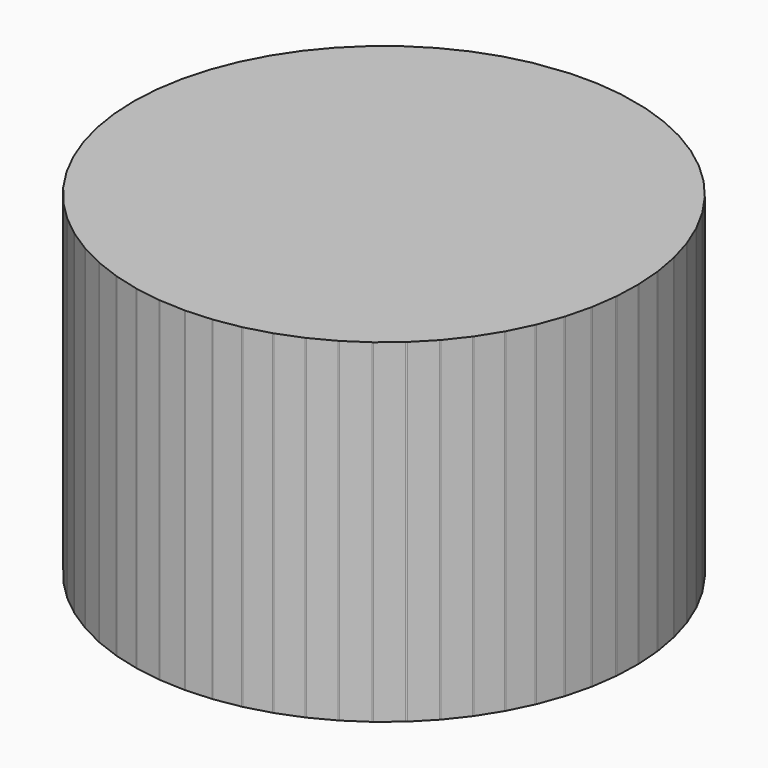
from build123d import *

# Parameters (mm, degrees)
F1_DEPTH = 1200


with BuildPart() as f1:
    # F0 (on Top) → F1 (new body)
    with BuildSketch(Plane.XY):
        with BuildLine():
            Line((-45.3789088382, 853.7132323148), (-161.9571096543, 839.5129492633))
            ThreePointArc((-161.9571096543, 839.5129492633), (-162.8425380997, 839.3095034309), (-163.7354467484, 839.1419090281))
            Line((-163.7354467484, 839.1419090281), (-251.8014482962, 817.0150783734))
            Line((-251.8014482962, 817.0150783734), (-336.5189511095, 785.9214993864))
            Line((-336.5189511095, 785.9214993864), (-417.4869680785, 746.0712024587))
            Line((-417.4869680785, 746.0712024587), (-493.8033555576, 697.9081986147))
            Line((-493.8033555576, 697.9081986147), (-564.6177982417, 641.9691188541))
            Line((-564.6177982417, 641.9691188541), (-629.1412833589, 578.8772350222))
            Line((-629.1412833589, 578.8772350222), (-682.1170715989, 514.8223528118))
            Line((-682.1170715989, 514.8223528118), (-686.6548918314, 509.3355153311))
            Line((-686.6548918314, 509.3355153311), (-736.5178084535, 434.1187919042))
            Line((-736.5178084535, 434.1187919042), (-778.1744618394, 354.065127617))
            Line((-778.1744618394, 354.065127617), (-811.1607145857, 270.0664784202))
            Line((-811.1607145857, 270.0664784202), (-835.1090346788, 183.0587551892))
            Line((-835.1090346788, 183.0587551892), (-849.7525905274, 94.0113958278))
            Line((-849.7525905274, 94.0113958278), (-854.9282239939, 3.9165638154))
            Line((-854.9282239939, 3.9165638154), (-850.578268298, -86.2219064544))
            Line((-850.578268298, -86.2219064544), (-836.7511905387, -175.3996943713))
            Line((-836.7511905387, -175.3996943713), (-813.6010516749, -262.6231832245))
            Line((-813.6010516749, -262.6231832245), (-781.3857899823, -346.9205310547))
            Line((-781.3857899823, -346.9205310547), (-740.4643471112, -427.3524988938))
            Line((-740.4643471112, -427.3524988938), (-691.2926687676, -503.0229157421))
            Line((-691.2926687676, -503.0229157421), (-634.4186245776, -573.0886636836))
            Line((-634.4186245776, -573.0886636836), (-570.4759037371, -636.7690718846))
            Line((-570.4759037371, -636.7690718846), (-506.4761709846, -688.2842035081))
            Line((-506.4761709846, -688.2842035081), (-500.1769544631, -693.3546148094))
            Line((-500.1769544631, -693.3546148094), (-426.3158105316, -740.9199199377))
            ThreePointArc((-426.3158105316, -740.9199199377), (-424.8358834766, -741.7358856475), (-423.4209874114, -742.6600356636))
            Line((-423.4209874114, -742.6600356636), (-343.705541017, -782.8052814894))
            Line((-343.705541017, -782.8052814894), (-261.5140246341, -813.8291669567))
            ThreePointArc((-261.5140246341, -813.8291669567), (-259.8959233098, -814.316744881), (-258.3187278444, -814.9237363074))
            Line((-258.3187278444, -814.9237363074), (-171.958561813, -837.4651399746))
            Line((-171.958561813, -837.4651399746), (-82.7246881061, -850.9255159127))
            Line((-82.7246881061, -850.9255159127), (7.430902033, -854.9049007629))
            Line((7.430902033, -854.9049007629), (97.5036972452, -849.3589563177))
            Line((97.5036972452, -849.3589563177), (186.4901086702, -834.3494753529))
            Line((186.4901086702, -834.3494753529), (273.3986519091, -810.043693135))
            Line((273.3986519091, -810.043693135), (357.260994119, -776.7124240893))
            Line((357.260994119, -776.7124240893), (437.1427431536, -734.7270443924))
            Line((437.1427431536, -734.7270443924), (512.1538585377, -684.5553541084))
            Line((512.1538585377, -684.5553541084), (581.4585682758, -626.7563649714))
            Line((581.4585682758, -626.7563649714), (644.2846810031, -561.9740718914))
            Line((644.2846810031, -561.9740718914), (699.932189723, -490.9302775783))
            Line((699.932189723, -490.9302775783), (747.7810712672, -414.4165502342))
            Line((747.7810712672, -414.4165502342), (787.2981945791, -333.2854039199))
            Line((787.2981945791, -333.2854039199), (818.0432608465, -248.4407998643))
            Line((818.0432608464, -248.4407998643), (839.6737093001, -160.828074551))
            Line((839.6737093001, -160.828074551), (851.9485340173, -71.4234068021))
            Line((851.9485340173, -71.4234068021), (854.7309692044, 18.7770587818))
            Line((854.7309692044, 18.7770587818), (847.990013037, 108.7683108404))
            Line((847.990013037, 108.7683108404), (831.8007730824, 197.5476690653))
            Line((831.8007730824, 197.5476690653), (806.3436294523, 284.1259560391))
            Line((806.3436294523, 284.1259560391), (771.90490781, 367.5320212431))
            Line((771.90490781, 367.5320212431), (728.5777405842, 447.3158272021))
            Line((728.5777405842, 447.3158272021), (677.3725558734, 521.6167445578))
            Line((677.3725558734, 521.6167445578), (618.6161139553, 590.1116091117))
            Line((618.6161139553, 590.1116091117), (552.96706657, 652.0314646875))
            Line((552.96706657, 652.0314646875), (481.1568737825, 706.6864017833))
            Line((481.1568737825, 706.6864017833), (403.9856429877, 753.4674564395))
            Line((403.9856429877, 753.4674564395), (322.3132141337, 791.8533953001))
            Line((322.3132141337, 791.8533953001), (237.2373893847, 821.3514045601))
            Line((237.2373893847, 821.3514045601), (239.7527374986, 820.7906595856))
            ThreePointArc((239.7527374986, 820.7906595856), (265.9068939352, 835.3807244994), (254.3980572648, 863.0295322783))
            Line((254.3980572648, 863.0295322783), (249.5442035689, 864.7124900596))
            Line((249.5442035689, 864.7124900596), (146.4151045816, 887.702995298))
            ThreePointArc((146.4151045816, 887.702995298), (160.990792771, 861.5538290942), (136.6884131579, 844.0717261175))
            Line((136.6884131579, 844.0717261175), (44.5426402827, 853.7132323148))
            Line((44.5426402827, 853.7132323148), (-45.3789088382, 853.7132323148))
        make_face()
        with BuildLine():
            Line((642.8181213307, -563.8463922543), (644.2846810031, -561.9740718914))
            Line((644.2846810031, -561.9740718914), (581.4585682758, -626.7563649714))
            Line((581.4585682758, -626.7563649714), (579.8028204189, -628.4636668921))
            ThreePointArc((579.8028204189, -628.4636668921), (578.6752652963, -658.5386161534), (608.4638135591, -662.8300431911))
            Line((608.4638135591, -662.8300431911), (612.1066136975, -659.7920077326))
            Line((612.1066136975, -659.7920077326), (674.9419505757, -595.0002032947))
            ThreePointArc((674.9419505757, -595.0002032947), (644.8670013143, -593.872648172), (642.8181213307, -563.8463922543))
        make_face()
        with BuildLine():
            Line((-813.6010516749, -262.6231832245), (-836.7511905387, -175.3996943713))
            Line((-836.7511905387, -175.3996943713), (-837.3612997934, -173.1009670036))
            ThreePointArc((-837.3612997934, -173.1009670036), (-862.5558125169, -156.6385709979), (-881.5822110222, -179.9574499062))
            Line((-881.5822110222, -179.9574499062), (-880.8554309669, -184.6448204961))
            Line((-880.8554309669, -184.6448204961), (-857.701893192, -271.881115531))
            ThreePointArc((-857.701893192, -271.881115531), (-841.2394971863, -246.6866028075), (-814.4500672863, -260.4015727038))
            Line((-814.4500672863, -260.4015727038), (-813.6010516749, -262.6231832245))
        make_face()
        with BuildLine():
            ThreePointArc((-161.9571096543, 839.5129492633), (-145.0800525171, 864.1438752582), (-167.4608662933, 883.9079018644))
            Line((-167.4608662933, 883.9079018644), (-172.9373137648, 883.22855791))
            Line((-172.9373137648, 883.22855791), (-260.4732322637, 861.2349121127))
            ThreePointArc((-260.4732322637, 861.2349121127), (-235.499437602, 844.4395694898), (-249.5687648207, 817.8345326502))
            Line((-249.5687648207, 817.8345326502), (-251.8014482962, 817.0150783734))
            Line((-251.8014482962, 817.0150783734), (-163.7354467484, 839.1419090281))
            ThreePointArc((-163.7354467484, 839.1419090281), (-165.6244096176, 838.9081229983), (-167.5263627339, 838.8345636856))
            Line((-167.5263627339, 838.8345636856), (-162.5424756598, 839.4416463704))
            Line((-162.5424756598, 839.4416463704), (-161.9571096543, 839.5129492633))
        make_face()
        with BuildLine():
            Line((-811.1607145857, 270.0664784202), (-778.1744618394, 354.065127617))
            Line((-778.1744618394, 354.065127617), (-777.3051271803, 356.2788660985))
            ThreePointArc((-777.3051271803, 356.2788660985), (-787.8620788923, 384.4626331316), (-817.0016263275, 376.9353010079))
            Line((-817.0016263275, 376.9353010079), (-819.1911869402, 372.7275133922))
            Line((-819.1911869402, 372.7275133922), (-852.2240400187, 288.610197641))
            Line((-852.2240400187, 288.610197641), (-853.9161090047, 284.3013872325))
            Line((-853.9161090047, 284.3013872325), (-877.8679451981, 197.2808894984))
            ThreePointArc((-877.8679451981, 197.2808894984), (-850.9539814034, 210.7498355034), (-834.7231117693, 185.4055496672))
            Line((-834.7231117693, 185.4055496672), (-835.1090346788, 183.0587551892))
            Line((-835.1090346788, 183.0587551892), (-811.1607145857, 270.0664784202))
        make_face()
        with BuildLine():
            ThreePointArc((-415.4756914051, 747.3405120965), (-407.2965554706, 776.3038628867), (-435.2364018246, 787.4904146047))
            Line((-435.2364018246, 787.4904146047), (-439.4922497249, 785.3957998562))
            Line((-439.4922497249, 785.3957998562), (-511.8670323402, 739.7203289848))
            ThreePointArc((-511.8670323402, 739.7203289848), (-485.5735713443, 727.6188864118), (-491.9370796316, 699.3824424825))
            Line((-491.9370796316, 699.3824424825), (-493.8033555576, 697.9081986147))
            Line((-493.8033555576, 697.9081986147), (-417.4869680785, 746.0712024587))
            Line((-417.4869680785, 746.0712024587), (-415.4756914051, 747.3405120965))
        make_face()
        with BuildLine():
            Line((-42.6683311302, 898.7132323148), (-48.1095215351, 898.7132323148))
            Line((-48.1095215351, 898.7132323148), (-167.4608662933, 883.9079018644))
            ThreePointArc((-167.4608662933, 883.9079018644), (-145.0800525171, 864.1438752582), (-161.9571096543, 839.5129492633))
            Line((-161.9571096543, 839.5129492633), (-45.3789088382, 853.7132323148))
            Line((-45.3789088382, 853.7132323148), (-42.6683311302, 854.0434052838))
            ThreePointArc((-42.6683311302, 854.0434052838), (-22.8889263327, 876.3783187993), (-42.6683311302, 898.7132323148))
        make_face()
        with BuildLine():
            ThreePointArc((-249.5687648207, 817.8345326502), (-235.499437602, 844.4395694898), (-260.4732322637, 861.2349121127))
            Line((-260.4732322637, 861.2349121127), (-265.0736273399, 860.079049907))
            Line((-265.0736273399, 860.079049907), (-354.2564971043, 827.3465623664))
            Line((-354.2564971043, 827.3465623664), (-435.2364018246, 787.4904146047))
            ThreePointArc((-435.2364018246, 787.4904146047), (-407.2965554706, 776.3038628867), (-415.4756914051, 747.3405120965))
            Line((-415.4756914051, 747.3405120965), (-417.4869680785, 746.0712024587))
            Line((-417.4869680785, 746.0712024587), (-336.5189511095, 785.9214993864))
            Line((-336.5189511095, 785.9214993864), (-251.8014482962, 817.0150783734))
            Line((-251.8014482962, 817.0150783734), (-249.5687648207, 817.8345326502))
        make_face()
        with BuildLine():
            Line((-634.4186245776, -573.0886636836), (-691.2926687676, -503.0229157421))
            Line((-691.2926687676, -503.0229157421), (-692.7915531119, -501.1763712568))
            ThreePointArc((-692.7915531119, -501.1763712568), (-722.520519058, -496.4899507252), (-730.3145155475, -525.5593086877))
            Line((-730.3145155475, -525.5593086877), (-727.7299495439, -529.5367036729))
            Line((-727.7299495439, -529.5367036729), (-670.8475550877, -599.6127386909))
            ThreePointArc((-670.8475550877, -599.6127386909), (-666.1611345562, -569.8837727448), (-636.1038000308, -571.4104013365))
            Line((-636.1038000308, -571.4104013365), (-634.4186245776, -573.0886636836))
        make_face()
        with BuildLine():
            Line((-564.6177982417, 641.9691188541), (-493.8033555576, 697.9081986147))
            Line((-493.8033555576, 697.9081986147), (-491.9370796316, 699.3824424825))
            ThreePointArc((-491.9370796316, 699.3824424825), (-485.5735713443, 727.6188864118), (-511.8670323402, 739.7203289848))
            Line((-511.8670323402, 739.7203289848), (-519.8311905508, 734.6941767365))
            Line((-519.8311905508, 734.6941767365), (-590.6560302351, 678.7468839814))
            ThreePointArc((-590.6560302351, 678.7468839814), (-560.9918839482, 673.6662955613), (-562.9173170634, 643.6318709631))
            Line((-562.9173170634, 643.6318709631), (-564.6177982417, 641.9691188541))
        make_face()
        with BuildLine():
            Line((483.1906793842, 705.4535126608), (481.1568737825, 706.6864017833))
            Line((481.1568737825, 706.6864017833), (552.96706657, 652.0314646875))
            Line((552.96706657, 652.0314646875), (554.8595849456, 650.5910636976))
            ThreePointArc((554.8595849456, 650.5910636976), (584.8544713606, 653.0569798728), (585.5640069848, 683.1446935251))
            Line((585.5640069848, 683.1446935251), (582.1133560867, 686.3993303213))
            Line((582.1133560867, 686.3993303213), (510.2926201027, 741.0622918732))
            ThreePointArc((510.2926201027, 741.0622918732), (512.7585362778, 711.0674054583), (483.1906793842, 705.4535126608))
        make_face()
        with BuildLine():
            Line((-172.9373137648, 883.22855791), (-167.4608662933, 883.9079018644))
            ThreePointArc((-167.4608662933, 883.9079018644), (-170.2199618423, 883.7364854349), (-172.9373137648, 883.22855791))
        make_face()
        with BuildLine():
            Line((698.6711586066, -492.946755036), (699.932189723, -490.9302775783))
            Line((699.932189723, -490.9302775783), (644.2846810031, -561.9740718914))
            Line((644.2846810031, -561.9740718914), (642.8181213307, -563.8463922543))
            ThreePointArc((642.8181213307, -563.8463922543), (644.8670013143, -593.872648172), (674.9419505757, -595.0002032947))
            Line((674.9419505757, -595.0002032947), (678.2442221385, -591.5951108112))
            Line((678.2442221385, -591.5951108112), (733.8999010442, -520.5408858245))
            ThreePointArc((733.8999010442, -520.5408858245), (703.8736451264, -522.5897658082), (698.6711586066, -492.946755036))
        make_face()
        with BuildLine():
            Line((435.1658662127, -736.0492918634), (437.1427431536, -734.7270443924))
            Line((437.1427431536, -734.7270443924), (357.260994119, -776.7124240893))
            Line((357.260994119, -776.7124240893), (355.1557542907, -777.8189258198))
            ThreePointArc((355.1557542907, -777.8189258198), (344.7147473748, -806.0458514088), (371.6838508498, -819.4040478208))
            Line((371.6838508498, -819.4040478208), (376.0918305234, -817.6520867787))
            Line((376.0918305234, -817.6520867787), (455.9853078232, -775.6605427744))
            ThreePointArc((455.9853078232, -775.6605427744), (427.7583822341, -765.2195358585), (435.1658662127, -736.0492918634))
        make_face()
        with BuildLine():
            ThreePointArc((510.2926201027, 741.0622918732), (508.4812885365, 742.5984243407), (506.5181265479, 743.9350693968))
            Line((506.5181265479, 743.9350693968), (510.2926201027, 741.0622918732))
        make_face()
        with BuildLine():
            Line((-686.6548918314, 509.3355153311), (-682.1170715989, 514.8223528118))
            ThreePointArc((-682.1170715989, 514.8223528118), (-690.7457883936, 542.6359351361), (-719.7417989469, 539.9375120348))
            Line((-719.7417989469, 539.9375120348), (-722.8477204559, 536.1820334846))
            Line((-722.8477204559, 536.1820334846), (-772.7179579681, 460.9542667133))
            ThreePointArc((-772.7179579681, 460.9542667133), (-742.9473022489, 465.3681099001), (-735.4199701252, 436.228562465))
            Line((-735.4199701252, 436.228562465), (-736.5178084535, 434.1187919042))
            Line((-736.5178084535, 434.1187919042), (-686.6548918314, 509.3355153311))
        make_face()
        with BuildLine():
            Line((-722.8477204559, 536.1820334846), (-719.7417989469, 539.9375120348))
            ThreePointArc((-719.7417989469, 539.9375120348), (-721.3940009219, 538.1418489684), (-722.8477204559, 536.1820334846))
        make_face()
        with BuildLine():
            Line((786.4879251645, -335.5214370792), (787.2981945791, -333.2854039199))
            Line((787.2981945791, -333.2854039199), (747.7810712672, -414.4165502342))
            Line((747.7810712672, -414.4165502342), (746.7396190845, -416.5547172447))
            ThreePointArc((746.7396190845, -416.5547172447), (755.0377461641, -445.4842011772), (784.6807569362, -440.2817146573))
            Line((784.6807569362, -440.2817146573), (787.1957939802, -436.259993513))
            Line((787.1957939802, -436.259993513), (826.7187192093, -355.1169354966))
            ThreePointArc((826.7187192093, -355.1169354966), (797.7892352769, -363.4150625762), (786.4879251645, -335.5214370792))
        make_face()
        with BuildLine():
            Line((-740.4643471112, -427.3524988938), (-781.3857899823, -346.9205310547))
            Line((-781.3857899823, -346.9205310547), (-782.4642522393, -344.8007905106))
            ThreePointArc((-782.4642522393, -344.8007905106), (-810.5501121494, -333.9860585797), (-824.2650820457, -360.7754884797))
            Line((-824.2650820457, -360.7754884797), (-822.5717806785, -365.2063329563))
            Line((-822.5717806785, -365.2063329563), (-781.6443297075, -445.6501098438))
            ThreePointArc((-781.6443297075, -445.6501098438), (-770.8295977765, -417.5642499337), (-741.7602398141, -425.3582464232))
            Line((-741.7602398141, -425.3582464232), (-740.4643471112, -427.3524988938))
        make_face()
        with BuildLine():
            ThreePointArc((585.5640069848, 683.1446935251), (583.9246876528, 684.8631978538), (582.1133560867, 686.3993303213))
            Line((582.1133560867, 686.3993303213), (585.5640069848, 683.1446935251))
        make_face()
        with BuildLine():
            Line((-424.3050459125, -742.2148177359), (-426.3158105316, -740.9199199377))
            ThreePointArc((-426.3158105316, -740.9199199377), (-455.5155553594, -748.8776791707), (-450.6800282807, -778.7535675741))
            Line((-450.6800282807, -778.7535675741), (-446.6697009873, -781.3361493109))
            Line((-446.6697009873, -781.3361493109), (-366.0583624456, -821.9325725698))
            ThreePointArc((-366.0583624456, -821.9325725698), (-373.9717891002, -792.89549916), (-345.9306228334, -781.9654054722))
            Line((-345.9306228334, -781.9654054722), (-343.705541017, -782.8052814894))
            Line((-343.705541017, -782.8052814894), (-423.4209874114, -742.6600356636))
            ThreePointArc((-423.4209874114, -742.6600356636), (-422.8567275796, -743.0726518027), (-422.3054832383, -743.5025016744))
            Line((-422.3054832383, -743.5025016744), (-424.3050459125, -742.2148177359))
        make_face()
        with BuildLine():
            Line((355.1557542907, -777.8189258198), (357.260994119, -776.7124240893))
            Line((357.260994119, -776.7124240893), (273.3986519091, -810.043693135))
            Line((273.3986519091, -810.043693135), (271.1885057237, -810.9221205101))
            ThreePointArc((271.1885057237, -810.9221205101), (257.8303093117, -837.8912239851), (283.2411015877, -854.0177731985))
            Line((283.2411015877, -854.0177731985), (287.8091959428, -852.7402105746))
            Line((287.8091959428, -852.7402105746), (371.6838508498, -819.4040478208))
            ThreePointArc((371.6838508498, -819.4040478208), (344.7147473748, -806.0458514088), (355.1557542907, -777.8189258198))
        make_face()
        with BuildLine():
            Line((-691.2926687676, -503.0229157421), (-740.4643471112, -427.3524988938))
            Line((-740.4643471112, -427.3524988938), (-741.7602398141, -425.3582464232))
            ThreePointArc((-741.7602398141, -425.3582464232), (-770.8295977765, -417.5642499337), (-781.6443297075, -445.6501098438))
            Line((-781.6443297075, -445.6501098438), (-779.4934132933, -449.8777818834))
            Line((-779.4934132933, -449.8777818834), (-730.3145155475, -525.5593086877))
            ThreePointArc((-730.3145155475, -525.5593086877), (-722.520519058, -496.4899507252), (-692.7915531119, -501.1763712568))
            Line((-692.7915531119, -501.1763712568), (-691.2926687676, -503.0229157421))
        make_face()
        with BuildLine():
            Line((406.1380752036, 752.4558160046), (403.9856429877, 753.4674564395))
            Line((403.9856429877, 753.4674564395), (481.1568737825, 706.6864017833))
            Line((481.1568737825, 706.6864017833), (483.1906793842, 705.4535126608))
            ThreePointArc((483.1906793842, 705.4535126608), (512.7585362778, 711.0674054583), (510.2926201027, 741.0622918732))
            Line((510.2926201027, 741.0622918732), (506.5181265479, 743.9350693968))
            Line((506.5181265479, 743.9350693968), (429.3355654472, 790.7229924631))
            ThreePointArc((429.3355654472, 790.7229924631), (434.9494582446, 761.1551355694), (406.1380752036, 752.4558160046))
        make_face()
        with BuildLine():
            Line((-163.7354467484, 839.1419090281), (-162.5424756598, 839.4416463704))
            Line((-162.5424756598, 839.4416463704), (-167.5263627339, 838.8345636856))
            ThreePointArc((-167.5263627339, 838.8345636856), (-165.6244096176, 838.9081229983), (-163.7354467484, 839.1419090281))
        make_face()
        with BuildLine():
            Line((554.8595849456, 650.5910636976), (552.96706657, 652.0314646875))
            Line((552.96706657, 652.0314646875), (618.6161139553, 590.1116091117))
            Line((618.6161139553, 590.1116091117), (620.3462587119, 588.4797451666))
            ThreePointArc((620.3462587119, 588.4797451666), (650.4339723642, 587.7702095424), (654.3110541595, 617.6155138695))
            Line((654.3110541595, 617.6155138695), (651.2226929852, 621.2157468554))
            Line((651.2226929852, 621.2157468554), (585.5640069848, 683.1446935251))
            ThreePointArc((585.5640069848, 683.1446935251), (584.8544713606, 653.0569798728), (554.8595849456, 650.5910636976))
        make_face()
        with BuildLine():
            Line((-781.3857899823, -346.9205310547), (-813.6010516749, -262.6231832245))
            Line((-813.6010516749, -262.6231832245), (-814.4500672863, -260.4015727038))
            ThreePointArc((-814.4500672863, -260.4015727038), (-841.2394971863, -246.6866028075), (-857.701893192, -271.881115531))
            Line((-857.701893192, -271.881115531), (-856.4850735938, -276.4657640847))
            Line((-856.4850735938, -276.4657640847), (-824.2650820457, -360.7754884797))
            ThreePointArc((-824.2650820457, -360.7754884797), (-810.5501121494, -333.9860585797), (-782.4642522393, -344.8007905106))
            Line((-782.4642522393, -344.8007905106), (-781.3857899823, -346.9205310547))
        make_face()
        with BuildLine():
            Line((817.4732022018, -250.7497853462), (818.0432608464, -248.4407998643))
            Line((818.0432608465, -248.4407998643), (787.2981945791, -333.2854039199))
            Line((787.2981945791, -333.2854039199), (786.4879251645, -335.5214370792))
            ThreePointArc((786.4879251645, -335.5214370792), (797.7892352769, -363.4150625762), (826.7187192093, -355.1169354966))
            Line((826.7187192093, -355.1169354966), (828.7958216575, -350.8525131776))
            Line((828.7958216575, -350.8525131776), (859.5454019258, -265.9954522089))
            ThreePointArc((859.5454019258, -265.9954522089), (831.6517764288, -277.2967623213), (817.4732022018, -250.7497853462))
        make_face()
        with BuildLine():
            Line((-629.1412833589, 578.8772350222), (-564.6177982417, 641.9691188541))
            Line((-564.6177982417, 641.9691188541), (-562.9173170634, 643.6318709631))
            ThreePointArc((-562.9173170634, 643.6318709631), (-560.9918839482, 673.6662955613), (-590.6560302351, 678.7468839814))
            Line((-590.6560302351, 678.7468839814), (-594.378185087, 675.8066092402))
            Line((-594.378185087, 675.8066092402), (-658.9286927825, 612.6883023879))
            Line((-658.9286927825, 612.6883023879), (-662.3026325609, 609.3892211903))
            Line((-662.3026325609, 609.3892211903), (-719.7417989469, 539.9375120348))
            ThreePointArc((-719.7417989469, 539.9375120348), (-690.7457883936, 542.6359351361), (-682.1170715989, 514.8223528118))
            Line((-682.1170715989, 514.8223528118), (-629.1412833589, 578.8772350222))
        make_face()
        with BuildLine():
            Line((-778.1744618394, 354.065127617), (-736.5178084535, 434.1187919042))
            Line((-736.5178084535, 434.1187919042), (-735.4199701252, 436.228562465))
            ThreePointArc((-735.4199701252, 436.228562465), (-742.9473022489, 465.3681099001), (-772.7179579681, 460.9542667133))
            Line((-772.7179579681, 460.9542667133), (-775.3388568977, 457.0007188009))
            Line((-775.3388568977, 457.0007188009), (-817.0016263275, 376.9353010079))
            ThreePointArc((-817.0016263275, 376.9353010079), (-787.8620788923, 384.4626331316), (-777.3051271803, 356.2788660985))
            Line((-777.3051271803, 356.2788660985), (-778.1744618394, 354.065127617))
        make_face()
        with BuildLine():
            Line((-361.8218843087, -824.066092031), (-366.0583624456, -821.9325725698))
            ThreePointArc((-366.0583624456, -821.9325725698), (-363.9965031627, -823.1112842808), (-361.8218843087, -824.066092031))
        make_face()
        with BuildLine():
            Line((-594.378185087, 675.8066092402), (-590.6560302351, 678.7468839814))
            ThreePointArc((-590.6560302351, 678.7468839814), (-592.5948065348, 677.3751072286), (-594.378185087, 675.8066092402))
        make_face()
        with BuildLine():
            Line((-856.4850735938, -276.4657640847), (-857.701893192, -271.881115531))
            ThreePointArc((-857.701893192, -271.881115531), (-857.2146360268, -274.2055951405), (-856.4850735938, -276.4657640847))
        make_face()
        with BuildLine():
            ThreePointArc((882.7950509974, -173.9102541605), (883.485215027, -171.6377448399), (883.931992497, -169.3051465263))
            Line((883.931992497, -169.3051465263), (882.7950509974, -173.9102541605))
        make_face()
        with BuildLine():
            ThreePointArc((608.4638135591, -662.8300431911), (610.3654958993, -661.4072890743), (612.1066136975, -659.7920077326))
            Line((612.1066136975, -659.7920077326), (608.4638135591, -662.8300431911))
        make_face()
        with BuildLine():
            Line((-570.4759037371, -636.7690718846), (-634.4186245776, -573.0886636836))
            Line((-634.4186245776, -573.0886636836), (-636.1038000308, -571.4104013365))
            ThreePointArc((-636.1038000308, -571.4104013365), (-666.1611345562, -569.8837727448), (-670.8475550877, -599.6127386909))
            Line((-670.8475550877, -599.6127386909), (-667.8581366654, -603.2955405851))
            Line((-667.8581366654, -603.2955405851), (-603.9060277333, -666.9852983649))
            ThreePointArc((-603.9060277333, -666.9852983649), (-602.3793991416, -636.9279638396), (-572.3285941161, -635.2777908335))
            Line((-572.3285941161, -635.2777908335), (-570.4759037371, -636.7690718846))
        make_face()
        with BuildLine():
            Line((-662.3026325609, 609.3892211903), (-658.9286927825, 612.6883023879))
            ThreePointArc((-658.9286927825, 612.6883023879), (-660.702843264, 611.1279205733), (-662.3026325609, 609.3892211903))
        make_face()
        with BuildLine():
            ThreePointArc((283.2411015877, -854.0177731985), (285.558909276, -853.4997070639), (287.8091959428, -852.7402105746))
            Line((287.8091959428, -852.7402105746), (283.2411015877, -854.0177731985))
        make_face()
        with BuildLine():
            ThreePointArc((826.7187192093, -355.1169354966), (827.8699608589, -353.0396132625), (828.7958216575, -350.8525131776))
            Line((828.7958216575, -350.8525131776), (826.7187192093, -355.1169354966))
        make_face()
        with BuildLine():
            Line((-439.4922497249, 785.3957998562), (-435.2364018246, 787.4904146047))
            ThreePointArc((-435.2364018246, 787.4904146047), (-437.4196774753, 786.5555710707), (-439.4922497249, 785.3957998562))
        make_face()
        with BuildLine():
            Line((839.3502130047, -163.1842856962), (839.6737093001, -160.828074551))
            Line((839.6737093001, -160.828074551), (818.0432608464, -248.4407998643))
            Line((818.0432608464, -248.4407998643), (817.4732022018, -250.7497853462))
            ThreePointArc((817.4732022018, -250.7497853462), (831.6517764288, -277.2967623213), (859.5454019258, -265.9954522089))
            Line((859.5454019258, -265.9954522089), (861.1614267541, -261.5358428034))
            Line((861.1614267541, -261.5358428034), (882.7950509974, -173.9102541605))
            ThreePointArc((882.7950509974, -173.9102541605), (856.2480740223, -188.0888283874), (839.3502130047, -163.1842856962))
        make_face()
        with BuildLine():
            Line((-261.5140246341, -813.8291669567), (-343.705541017, -782.8052814894))
            Line((-343.705541017, -782.8052814894), (-345.9306228334, -781.9654054722))
            ThreePointArc((-345.9306228334, -781.9654054722), (-373.9717891002, -792.89549916), (-366.0583624456, -821.9325725698))
            Line((-366.0583624456, -821.9325725698), (-361.8218843087, -824.066092031))
            Line((-361.8218843087, -824.066092031), (-277.4052861094, -855.9298535155))
            ThreePointArc((-277.4052861094, -855.9298535155), (-288.3966123399, -827.7315950992), (-261.5140246341, -813.8291669567))
        make_face()
        with BuildLine():
            ThreePointArc((784.6807569362, -440.2817146573), (786.0445523306, -438.3373157471), (787.1957939802, -436.259993513))
            Line((787.1957939802, -436.259993513), (784.6807569362, -440.2817146573))
        make_face()
        with BuildLine():
            Line((-853.9161090047, 284.3013872325), (-852.2240400187, 288.610197641))
            ThreePointArc((-852.2240400187, 288.610197641), (-853.1839379243, 286.5005065761), (-853.9161090047, 284.3013872325))
        make_face()
        with BuildLine():
            Line((-819.1911869402, 372.7275133922), (-817.0016263275, 376.9353010079))
            ThreePointArc((-817.0016263275, 376.9353010079), (-818.2076004465, 374.8892679133), (-819.1911869402, 372.7275133922))
        make_face()
        with BuildLine():
            Line((579.8028204189, -628.4636668921), (581.4585682758, -626.7563649714))
            Line((581.4585682758, -626.7563649714), (512.1538585377, -684.5553541084))
            Line((512.1538585377, -684.5553541084), (510.3273707982, -686.0786148711))
            ThreePointArc((510.3273707982, -686.0786148711), (506.0359437605, -715.8671631339), (535.2061877556, -723.2746471125))
            Line((535.2061877556, -723.2746471125), (539.1489284804, -720.637518395))
            Line((539.1489284804, -720.637518395), (608.4638135591, -662.8300431911))
            ThreePointArc((608.4638135591, -662.8300431911), (578.6752652963, -658.5386161534), (579.8028204189, -628.4636668921))
        make_face()
        with BuildLine():
            Line((510.3273707982, -686.0786148711), (512.1538585377, -684.5553541084))
            Line((512.1538585377, -684.5553541084), (437.1427431536, -734.7270443924))
            Line((437.1427431536, -734.7270443924), (435.1658662127, -736.0492918634))
            ThreePointArc((435.1658662127, -736.0492918634), (427.7583822341, -765.2195358585), (455.9853078232, -775.6605427744))
            Line((455.9853078232, -775.6605427744), (460.1840592145, -773.4537036209))
            Line((460.1840592145, -773.4537036209), (535.2061877556, -723.2746471125))
            ThreePointArc((535.2061877556, -723.2746471125), (506.0359437605, -715.8671631339), (510.3273707982, -686.0786148711))
        make_face()
        with BuildLine():
            ThreePointArc((371.6838508498, -819.4040478208), (373.9341375166, -818.6445513315), (376.0918305234, -817.6520867787))
            Line((376.0918305234, -817.6520867787), (371.6838508498, -819.4040478208))
        make_face()
        with BuildLine():
            Line((-265.0736273399, 860.079049907), (-260.4732322637, 861.2349121127))
            ThreePointArc((-260.4732322637, 861.2349121127), (-262.8039742916, 860.7785497569), (-265.0736273399, 860.079049907))
        make_face()
        with BuildLine():
            Line((-775.3388568977, 457.0007188009), (-772.7179579681, 460.9542667133))
            ThreePointArc((-772.7179579681, 460.9542667133), (-774.1328827787, 459.0467518954), (-775.3388568977, 457.0007188009))
        make_face()
        with BuildLine():
            Line((-667.8581366654, -603.2955405851), (-670.8475550877, -599.6127386909))
            ThreePointArc((-670.8475550877, -599.6127386909), (-669.4501665641, -601.5331371689), (-667.8581366654, -603.2955405851))
        make_face()
        with BuildLine():
            ThreePointArc((-163.7354467484, 839.1419090281), (-162.8425380997, 839.3095034309), (-161.9571096543, 839.5129492633))
            Line((-161.9571096543, 839.5129492633), (-162.5424756598, 839.4416463704))
            Line((-162.5424756598, 839.4416463704), (-163.7354467484, 839.1419090281))
        make_face()
        with BuildLine():
            Line((-849.7525905274, 94.0113958278), (-835.1090346788, 183.0587551892))
            Line((-835.1090346788, 183.0587551892), (-834.7231117693, 185.4055496672))
            ThreePointArc((-834.7231117693, 185.4055496672), (-850.9539814034, 210.7498355034), (-877.8679451981, 197.2808894984))
            Line((-877.8679451981, 197.2808894984), (-879.126718867, 192.707582036))
            Line((-879.126718867, 192.707582036), (-893.7724246874, 103.6471487116))
            ThreePointArc((-893.7724246874, 103.6471487116), (-868.4281388512, 119.8780183456), (-849.6161895367, 96.3857958749))
            Line((-849.6161895367, 96.3857958749), (-849.7525905274, 94.0113958278))
        make_face()
        with BuildLine():
            Line((-506.4761709846, -688.2842035081), (-570.4759037371, -636.7690718846))
            Line((-570.4759037371, -636.7690718846), (-572.3285941161, -635.2777908335))
            ThreePointArc((-572.3285941161, -635.2777908335), (-602.3793991416, -636.9279638396), (-603.9060277333, -666.9852983649))
            Line((-603.9060277333, -666.9852983649), (-600.5450649184, -670.3324734802))
            Line((-600.5450649184, -670.3324734802), (-530.3632146329, -726.8237602332))
            ThreePointArc((-530.3632146329, -726.8237602332), (-533.7224992936, -698.0692125192), (-506.4761709846, -688.2842035081))
        make_face()
        with BuildLine():
            Line((620.3462587119, 588.4797451666), (618.6161139553, 590.1116091117))
            Line((618.6161139553, 590.1116091117), (677.3725558734, 521.6167445578))
            Line((677.3725558734, 521.6167445578), (678.9210497808, 519.8115998454))
            ThreePointArc((678.9210497808, 519.8115998454), (708.7663541079, 515.9345180501), (715.7677837245, 545.2048774082))
            Line((715.7677837245, 545.2048774082), (713.076122718, 549.1105928767))
            Line((713.076122718, 549.1105928767), (654.3110541595, 617.6155138695))
            ThreePointArc((654.3110541595, 617.6155138695), (650.4339723642, 587.7702095424), (620.3462587119, 588.4797451666))
        make_face()
        with BuildLine():
            Line((-500.1769544631, -693.3546148094), (-506.4761709846, -688.2842035081))
            ThreePointArc((-506.4761709846, -688.2842035081), (-533.7224992936, -698.0692125192), (-530.3632146329, -726.8237602332))
            Line((-530.3632146329, -726.8237602332), (-526.5407348864, -729.9005785073))
            Line((-526.5407348864, -729.9005785073), (-450.6800282807, -778.7535675741))
            ThreePointArc((-450.6800282807, -778.7535675741), (-455.5155553594, -748.8776791707), (-426.3158105316, -740.9199199377))
            Line((-426.3158105316, -740.9199199377), (-500.1769544631, -693.3546148094))
        make_face()
        with BuildLine():
            Line((854.9086234192, 16.4053885278), (854.7309692044, 18.7770587818))
            Line((854.7309692044, 18.7770587818), (851.9485340173, -71.4234068021))
            Line((851.9485340173, -71.4234068021), (851.875204459, -73.8005907643))
            ThreePointArc((851.875204459, -73.8005907643), (871.3040767169, -96.7852133718), (896.2086194081, -79.8873523542))
            Line((896.2086194081, -79.8873523542), (896.853809805, -75.1880564871))
            Line((896.853809805, -75.1880564871), (899.6366535101, 15.0256523594))
            ThreePointArc((899.6366535101, 15.0256523594), (876.6520309025, -4.4032198986), (854.9086234192, 16.4053885278))
        make_face()
        with BuildLine():
            ThreePointArc((654.3110541595, 617.6155138695), (652.8620123172, 619.4972425267), (651.2226929852, 621.2157468554))
            Line((651.2226929852, 621.2157468554), (654.3110541595, 617.6155138695))
        make_face()
        with BuildLine():
            Line((-850.578268298, -86.2219064544), (-854.9282239939, 3.9165638154))
            Line((-854.9282239939, 3.9165638154), (-855.0428646984, 6.2921139249))
            ThreePointArc((-855.0428646984, 6.2921139249), (-876.2262914185, 27.6705232674), (-899.7185138893, 8.8585739529))
            Line((-899.7185138893, 8.8585739529), (-899.9905559825, 4.1230016121))
            Line((-899.9905559825, 4.1230016121), (-895.4113188777, -90.7665688766))
            Line((-895.4113188777, -90.7665688766), (-881.5822110222, -179.9574499062))
            ThreePointArc((-881.5822110222, -179.9574499062), (-862.5558125169, -156.6385709979), (-837.3612997934, -173.1009670036))
            Line((-837.3612997934, -173.1009670036), (-836.7511905387, -175.3996943713))
            Line((-836.7511905387, -175.3996943713), (-850.578268298, -86.2219064544))
        make_face()
        with BuildLine():
            Line((-822.5717806785, -365.2063329563), (-824.2650820457, -360.7754884797))
            ThreePointArc((-824.2650820457, -360.7754884797), (-823.5355196127, -363.0356574239), (-822.5717806785, -365.2063329563))
        make_face()
        with BuildLine():
            Line((746.7396190845, -416.5547172447), (747.7810712672, -414.4165502342))
            Line((747.7810712672, -414.4165502342), (699.932189723, -490.9302775783))
            Line((699.932189723, -490.9302775783), (698.6711586066, -492.946755036))
            ThreePointArc((698.6711586066, -492.946755036), (703.8736451264, -522.5897658082), (733.8999010442, -520.5408858245))
            Line((733.8999010442, -520.5408858245), (736.8248502032, -516.8066757725))
            Line((736.8248502032, -516.8066757725), (784.6807569362, -440.2817146573))
            ThreePointArc((784.6807569362, -440.2817146573), (755.0377461641, -445.4842011772), (746.7396190845, -416.5547172447))
        make_face()
        with BuildLine():
            ThreePointArc((674.9419505757, -595.0002032947), (676.6830683738, -593.384921953), (678.2442221385, -591.5951108112))
            Line((678.2442221385, -591.5951108112), (674.9419505757, -595.0002032947))
        make_face()
        with BuildLine():
            Line((-727.7299495439, -529.5367036729), (-730.3145155475, -525.5593086877))
            ThreePointArc((-730.3145155475, -525.5593086877), (-729.1273380675, -527.616305195), (-727.7299495439, -529.5367036729))
        make_face()
        with BuildLine():
            Line((-779.4934132933, -449.8777818834), (-781.6443297075, -445.6501098438))
            ThreePointArc((-781.6443297075, -445.6501098438), (-780.6805907733, -447.8207853761), (-779.4934132933, -449.8777818834))
        make_face()
        with BuildLine():
            ThreePointArc((429.3355654472, 790.7229924631), (427.3724034585, 792.0596375192), (425.2792845496, 793.1819022979))
            Line((425.2792845496, 793.1819022979), (429.3355654472, 790.7229924631))
        make_face()
        with BuildLine():
            Line((425.2792845496, 793.1819022979), (343.5948645223, 831.573476995))
            ThreePointArc((343.5948645223, 831.573476995), (352.2941840872, 802.762093954), (324.5602906173, 791.0742752256))
            Line((324.5602906173, 791.0742752256), (322.3132141337, 791.8533953001))
            Line((322.3132141337, 791.8533953001), (403.9856429877, 753.4674564395))
            Line((403.9856429877, 753.4674564395), (406.1380752036, 752.4558160046))
            ThreePointArc((406.1380752036, 752.4558160046), (434.9494582446, 761.1551355694), (429.3355654472, 790.7229924631))
            Line((429.3355654472, 790.7229924631), (425.2792845496, 793.1819022979))
        make_face()
        with BuildLine():
            Line((-446.6697009873, -781.3361493109), (-450.6800282807, -778.7535675741))
            ThreePointArc((-450.6800282807, -778.7535675741), (-448.743111213, -780.1508342242), (-446.6697009873, -781.3361493109))
        make_face()
        with BuildLine():
            Line((848.4166716061, 106.4285793859), (847.990013037, 108.7683108404))
            Line((847.990013037, 108.7683108404), (854.7309692044, 18.7770587818))
            Line((854.7309692044, 18.7770587818), (854.9086234192, 16.4053885278))
            ThreePointArc((854.9086234192, 16.4053885278), (876.6520309025, -4.4032198986), (899.6366535101, 15.0256523594))
            Line((899.6366535101, 15.0256523594), (899.7829041087, 19.7667770211))
            Line((899.7829041087, 19.7667770211), (893.0409582318, 109.7712416254))
            ThreePointArc((893.0409582318, 109.7712416254), (872.2323498055, 88.0278341421), (848.4166716061, 106.4285793859))
        make_face()
        with BuildLine():
            Line((-526.5407348864, -729.9005785073), (-530.3632146329, -726.8237602332))
            ThreePointArc((-530.3632146329, -726.8237602332), (-528.5332818945, -728.4631811455), (-526.5407348864, -729.9005785073))
        make_face()
        with BuildLine():
            Line((-880.8554309669, -184.6448204961), (-881.5822110222, -179.9574499062))
            ThreePointArc((-881.5822110222, -179.9574499062), (-881.3426881321, -182.3203408866), (-880.8554309669, -184.6448204961))
        make_face()
        with BuildLine():
            ThreePointArc((896.2086194081, -79.8873523542), (896.6553968781, -77.5547540407), (896.853809805, -75.1880564871))
            Line((896.853809805, -75.1880564871), (896.2086194081, -79.8873523542))
        make_face()
        with BuildLine():
            ThreePointArc((146.4151045816, 887.702995298), (143.9256105691, 888.4104773664), (141.37134191, 888.8273981413))
            Line((141.37134191, 888.8273981413), (146.4151045816, 887.702995298))
        make_face()
        with BuildLine():
            ThreePointArc((733.8999010442, -520.5408858245), (735.4610548088, -518.7510746828), (736.8248502032, -516.8066757725))
            Line((736.8248502032, -516.8066757725), (733.8999010442, -520.5408858245))
        make_face()
        with BuildLine():
            Line((7.430902033, -854.9049007629), (-82.7246881061, -850.9255159127))
            Line((-82.7246881061, -850.9255159127), (-85.1006894004, -850.8206414003))
            ThreePointArc((-85.1006894004, -850.8206414003), (-108.3411590727, -869.9427365533), (-91.7753345488, -895.069364092))
            Line((-91.7753345488, -895.069364092), (-87.0850159728, -895.7768695345))
            Line((-87.0850159728, -895.7768695345), (3.0838108402, -899.7568386394))
            ThreePointArc((3.0838108402, -899.7568386394), (-16.0382843127, -876.5163689671), (5.0570827538, -855.0510610971))
            Line((5.0570827538, -855.0510610971), (7.430902033, -854.9049007629))
        make_face()
        with BuildLine():
            ThreePointArc((455.9853078232, -775.6605427744), (458.1430008299, -774.6680782216), (460.1840592145, -773.4537036209))
            Line((460.1840592145, -773.4537036209), (455.9853078232, -775.6605427744))
        make_face()
        with BuildLine():
            Line((-854.9282239939, 3.9165638154), (-849.7525905274, 94.0113958278))
            Line((-849.7525905274, 94.0113958278), (-849.6161895367, 96.3857958749))
            ThreePointArc((-849.6161895367, 96.3857958749), (-868.4281388512, 119.8780183456), (-893.7724246874, 103.6471487116))
            Line((-893.7724246874, 103.6471487116), (-894.5421205345, 98.9666337187))
            Line((-894.5421205345, 98.9666337187), (-899.7185138893, 8.8585739529))
            ThreePointArc((-899.7185138893, 8.8585739529), (-876.2262914185, 27.6705232674), (-855.0428646984, 6.2921139249))
            Line((-855.0428646984, 6.2921139249), (-854.9282239939, 3.9165638154))
        make_face()
        with BuildLine():
            ThreePointArc((859.5454019258, -265.9954522089), (860.4712627245, -263.808352124), (861.1614267541, -261.5358428034))
            Line((861.1614267541, -261.5358428034), (859.5454019258, -265.9954522089))
        make_face()
        with BuildLine():
            Line((141.37134191, 888.8273981413), (51.5479812058, 898.2259029437))
            ThreePointArc((51.5479812058, 898.2259029437), (69.2683144768, 873.8717679387), (46.8904784649, 853.7132323148))
            Line((46.8904784649, 853.7132323148), (44.5426402827, 853.7132323148))
            Line((44.5426402827, 853.7132323148), (136.6884131579, 844.0717261175))
            ThreePointArc((136.6884131579, 844.0717261175), (160.990792771, 861.5538290942), (146.4151045816, 887.702995298))
            Line((146.4151045816, 887.702995298), (141.37134191, 888.8273981413))
        make_face()
        with BuildLine():
            Line((-259.27647747, -814.6737481251), (-261.5140246341, -813.8291669567))
            ThreePointArc((-261.5140246341, -813.8291669567), (-288.3966123399, -827.7315950992), (-277.4052861094, -855.9298535155))
            Line((-277.4052861094, -855.9298535155), (-272.942657129, -857.6143107011))
            Line((-272.942657129, -857.6143107011), (-185.6119214264, -880.4090487904))
            ThreePointArc((-185.6119214264, -880.4090487904), (-199.4368993133, -853.6762236488), (-174.3102717746, -837.1103991249))
            Line((-174.3102717746, -837.1103991249), (-171.958561813, -837.4651399746))
            Line((-171.958561813, -837.4651399746), (-258.3187278444, -814.9237363074))
            ThreePointArc((-258.3187278444, -814.9237363074), (-257.6805050789, -815.208890542), (-257.0513956537, -815.5136241423))
            Line((-257.0513956537, -815.5136241423), (-259.27647747, -814.6737481251))
        make_face()
        with BuildLine():
            ThreePointArc((-258.3187278444, -814.9237363074), (-259.8959233098, -814.316744881), (-261.5140246341, -813.8291669567))
            Line((-261.5140246341, -813.8291669567), (-259.27647747, -814.6737481251))
            Line((-259.27647747, -814.6737481251), (-258.3187278444, -814.9237363074))
        make_face()
        with BuildLine():
            Line((46.8904784649, 898.7132323148), (-42.6683311302, 898.7132323148))
            ThreePointArc((-42.6683311302, 898.7132323148), (-22.8889263327, 876.3783187993), (-42.6683311302, 854.0434052838))
            Line((-42.6683311302, 854.0434052838), (-45.3789088382, 853.7132323148))
            Line((-45.3789088382, 853.7132323148), (44.5426402827, 853.7132323148))
            Line((44.5426402827, 853.7132323148), (46.8904784649, 853.7132323148))
            ThreePointArc((46.8904784649, 853.7132323148), (69.2683144768, 873.8717679387), (51.5479812058, 898.2259029437))
            Line((51.5479812058, 898.2259029437), (46.8904784649, 898.7132323148))
        make_face()
        with BuildLine():
            Line((271.1885057237, -810.9221205101), (273.3986519091, -810.043693135))
            Line((273.3986519091, -810.043693135), (186.4901086702, -834.3494753529))
            Line((186.4901086702, -834.3494753529), (184.199681522, -834.9900409564))
            ThreePointArc((184.199681522, -834.9900409564), (168.0731323085, -860.4008332324), (191.6424869653, -879.1160536342))
            Line((191.6424869653, -879.1160536342), (196.3197984075, -878.3271239995))
            Line((196.3197984075, -878.3271239995), (283.2411015877, -854.0177731985))
            ThreePointArc((283.2411015877, -854.0177731985), (257.8303093117, -837.8912239851), (271.1885057237, -810.9221205101))
        make_face()
        with BuildLine():
            Line((832.4716821865, 195.2659456403), (831.8007730824, 197.5476690653))
            Line((831.8007730824, 197.5476690653), (847.990013037, 108.7683108404))
            Line((847.990013037, 108.7683108404), (848.4166716061, 106.4285793859))
            ThreePointArc((848.4166716061, 106.4285793859), (872.2323498055, 88.0278341421), (893.0409582318, 109.7712416254))
            Line((893.0409582318, 109.7712416254), (892.6866395116, 114.5013695877))
            Line((892.6866395116, 114.5013695877), (876.4950226474, 203.2937624277))
            ThreePointArc((876.4950226474, 203.2937624277), (858.0942774036, 179.4780842282), (832.4716821865, 195.2659456403))
        make_face()
        with BuildLine():
            Line((851.875204459, -73.8005907643), (851.9485340173, -71.4234068021))
            Line((851.9485340173, -71.4234068021), (839.6737093001, -160.828074551))
            Line((839.6737093001, -160.828074551), (839.3502130047, -163.1842856962))
            ThreePointArc((839.3502130047, -163.1842856962), (856.2480740223, -188.0888283874), (882.7950509974, -173.9102541605))
            Line((882.7950509974, -173.9102541605), (883.931992497, -169.3051465263))
            Line((883.931992497, -169.3051465263), (896.2086194081, -79.8873523542))
            ThreePointArc((896.2086194081, -79.8873523542), (871.3040767169, -96.7852133718), (851.875204459, -73.8005907643))
        make_face()
        with BuildLine():
            Line((-879.126718867, 192.707582036), (-877.8679451981, 197.2808894984))
            ThreePointArc((-877.8679451981, 197.2808894984), (-878.6181849699, 195.0274997663), (-879.126718867, 192.707582036))
        make_face()
        with BuildLine():
            ThreePointArc((-42.6683311302, 898.7132323148), (-45.3889263327, 898.8783187993), (-48.1095215351, 898.7132323148))
            Line((-48.1095215351, 898.7132323148), (-42.6683311302, 898.7132323148))
        make_face()
        with BuildLine():
            Line((-894.5421205345, 98.9666337187), (-893.7724246874, 103.6471487116))
            ThreePointArc((-893.7724246874, 103.6471487116), (-894.2809585844, 101.3272309812), (-894.5421205345, 98.9666337187))
        make_face()
        with BuildLine():
            ThreePointArc((535.2061877556, -723.2746471125), (537.2472461402, -722.0602725118), (539.1489284804, -720.637518395))
            Line((539.1489284804, -720.637518395), (535.2061877556, -723.2746471125))
        make_face()
        with BuildLine():
            Line((-600.5450649184, -670.3324734802), (-603.9060277333, -666.9852983649))
            ThreePointArc((-603.9060277333, -666.9852983649), (-602.3139978345, -668.7477017811), (-600.5450649184, -670.3324734802))
        make_face()
        with BuildLine():
            ThreePointArc((-423.4209874114, -742.6600356636), (-424.8358834766, -741.7358856475), (-426.3158105316, -740.9199199377))
            Line((-426.3158105316, -740.9199199377), (-424.3050459125, -742.2148177359))
            Line((-424.3050459125, -742.2148177359), (-423.4209874114, -742.6600356636))
        make_face()
        with BuildLine():
            Line((-258.3187278444, -814.9237363074), (-259.27647747, -814.6737481251))
            Line((-259.27647747, -814.6737481251), (-257.0513956537, -815.5136241423))
            ThreePointArc((-257.0513956537, -815.5136241423), (-257.6805050789, -815.208890542), (-258.3187278444, -814.9237363074))
        make_face()
        with BuildLine():
            Line((339.3019912637, 833.5911220284), (254.3980572648, 863.0295322783))
            ThreePointArc((254.3980572648, 863.0295322783), (265.9068939352, 835.3807244994), (239.7527374986, 820.7906595856))
            Line((239.7527374986, 820.7906595856), (237.2373893847, 821.3514045601))
            Line((237.2373893847, 821.3514045601), (322.3132141337, 791.8533953001))
            Line((322.3132141337, 791.8533953001), (324.5602906173, 791.0742752256))
            ThreePointArc((324.5602906173, 791.0742752256), (352.2941840872, 802.762093954), (343.5948645223, 831.573476995))
            Line((343.5948645223, 831.573476995), (339.3019912637, 833.5911220284))
        make_face()
        with BuildLine():
            Line((-423.4209874114, -742.6600356636), (-424.3050459125, -742.2148177359))
            Line((-424.3050459125, -742.2148177359), (-422.3054832383, -743.5025016744))
            ThreePointArc((-422.3054832383, -743.5025016744), (-422.8567275796, -743.0726518027), (-423.4209874114, -742.6600356636))
        make_face()
        with BuildLine():
            Line((773.0432599318, 365.4358291628), (771.90490781, 367.5320212431))
            Line((771.90490781, 367.5320212431), (806.3436294523, 284.1259560391))
            Line((806.3436294523, 284.1259560391), (807.2513138389, 281.9276635499))
            ThreePointArc((807.2513138389, 281.9276635499), (834.3953397503, 268.9285939315), (850.1832011624, 294.5511891485))
            Line((850.1832011624, 294.5511891485), (848.8451205805, 299.1019245453))
            Line((848.8451205805, 299.1019245453), (814.4039801509, 382.5138477346))
            ThreePointArc((814.4039801509, 382.5138477346), (801.4029341476, 355.3765472661), (773.0432599318, 365.4358291628))
        make_face()
        with BuildLine():
            Line((95.1585090168, -849.7545229835), (97.5036972452, -849.3589563177))
            Line((97.5036972452, -849.3589563177), (7.430902033, -854.9049007629))
            Line((7.430902033, -854.9049007629), (5.0570827538, -855.0510610971))
            ThreePointArc((5.0570827538, -855.0510610971), (-16.0382843127, -876.5163689671), (3.0838108402, -899.7568386394))
            Line((3.0838108402, -899.7568386394), (7.8225767549, -899.9660034095))
            Line((7.8225767549, -899.9660034095), (97.908596485, -894.4192447068))
            ThreePointArc((97.908596485, -894.4192447068), (76.443288615, -873.3238776403), (95.1585090168, -849.7545229835))
        make_face()
        with BuildLine():
            Line((-272.942657129, -857.6143107011), (-277.4052861094, -855.9298535155))
            ThreePointArc((-277.4052861094, -855.9298535155), (-275.2184846112, -856.8900102873), (-272.942657129, -857.6143107011))
        make_face()
        with BuildLine():
            Line((807.2513138389, 281.9276635499), (806.3436294523, 284.1259560391))
            Line((806.3436294523, 284.1259560391), (831.8007730824, 197.5476690653))
            Line((831.8007730824, 197.5476690653), (832.4716821865, 195.2659456403))
            ThreePointArc((832.4716821865, 195.2659456403), (858.0942774036, 179.4780842282), (876.4950226474, 203.2937624277))
            Line((876.4950226474, 203.2937624277), (875.6440824188, 207.9601907216))
            Line((875.6440824188, 207.9601907216), (850.1832011624, 294.5511891485))
            ThreePointArc((850.1832011624, 294.5511891485), (834.3953397503, 268.9285939315), (807.2513138389, 281.9276635499))
        make_face()
        with BuildLine():
            Line((-82.7246881061, -850.9255159127), (-171.958561813, -837.4651399746))
            Line((-171.958561813, -837.4651399746), (-174.3102717746, -837.1103991249))
            ThreePointArc((-174.3102717746, -837.1103991249), (-199.4368993133, -853.6762236488), (-185.6119214264, -880.4090487904))
            Line((-185.6119214264, -880.4090487904), (-181.0223096028, -881.6070118971))
            Line((-181.0223096028, -881.6070118971), (-91.7753345488, -895.069364092))
            ThreePointArc((-91.7753345488, -895.069364092), (-108.3411590727, -869.9427365533), (-85.1006894004, -850.8206414003))
            Line((-85.1006894004, -850.8206414003), (-82.7246881061, -850.9255159127))
        make_face()
        with BuildLine():
            ThreePointArc((51.5479812058, 898.2259029437), (49.2319428409, 898.5910683267), (46.8904784649, 898.7132323148))
            Line((46.8904784649, 898.7132323148), (51.5479812058, 898.2259029437))
        make_face()
        with BuildLine():
            Line((-899.9905559825, 4.1230016121), (-899.7185138893, 8.8585739529))
            ThreePointArc((-899.7185138893, 8.8585739529), (-899.9796758394, 6.4979766904), (-899.9905559825, 4.1230016121))
        make_face()
        with BuildLine():
            ThreePointArc((899.6366535101, 15.0256523594), (899.8350664369, 17.392349913), (899.7829041087, 19.7667770211))
            Line((899.7829041087, 19.7667770211), (899.6366535101, 15.0256523594))
        make_face()
        with BuildLine():
            Line((184.199681522, -834.9900409564), (186.4901086702, -834.3494753529))
            Line((186.4901086702, -834.3494753529), (97.5036972452, -849.3589563177))
            Line((97.5036972452, -849.3589563177), (95.1585090168, -849.7545229835))
            ThreePointArc((95.1585090168, -849.7545229835), (76.443288615, -873.3238776403), (97.908596485, -894.4192447068))
            Line((97.908596485, -894.4192447068), (102.6430105256, -894.127738296))
            Line((102.6430105256, -894.127738296), (191.6424869653, -879.1160536342))
            ThreePointArc((191.6424869653, -879.1160536342), (168.0731323085, -860.4008332324), (184.199681522, -834.9900409564))
        make_face()
        with BuildLine():
            Line((678.9210497808, 519.8115998454), (677.3725558734, 521.6167445578))
            Line((677.3725558734, 521.6167445578), (728.5777405842, 447.3158272021))
            Line((728.5777405842, 447.3158272021), (729.9313192764, 445.3517265135))
            ThreePointArc((729.9313192764, 445.3517265135), (759.1955190615, 438.3469506541), (769.2548009582, 466.7066248698))
            Line((769.2548009582, 466.7066248698), (766.9844758983, 470.8872622305))
            Line((766.9844758983, 470.8872622305), (715.7677837245, 545.2048774082))
            ThreePointArc((715.7677837245, 545.2048774082), (708.7663541079, 515.9345180501), (678.9210497808, 519.8115998454))
        make_face()
        with BuildLine():
            ThreePointArc((343.5948645223, 831.573476995), (341.5017456135, 832.6957417736), (339.3019912637, 833.5911220284))
            Line((339.3019912637, 833.5911220284), (343.5948645223, 831.573476995))
        make_face()
        with BuildLine():
            ThreePointArc((97.908596485, -894.4192447068), (100.2835067718, -894.3986017959), (102.6430105256, -894.127738296))
            Line((102.6430105256, -894.127738296), (97.908596485, -894.4192447068))
        make_face()
        with BuildLine():
            ThreePointArc((850.1832011624, 294.5511891485), (849.6344173258, 296.8619165882), (848.8451205805, 299.1019245453))
            Line((848.8451205805, 299.1019245453), (850.1832011624, 294.5511891485))
        make_face()
        with BuildLine():
            Line((7.8225767549, -899.9660034095), (3.0838108402, -899.7568386394))
            ThreePointArc((3.0838108402, -899.7568386394), (5.4476664682, -899.9866463204), (7.8225767549, -899.9660034095))
        make_face()
        with BuildLine():
            ThreePointArc((254.3980572648, 863.0295322783), (252.019320857, 864.009998224), (249.5442035689, 864.7124900596))
            Line((249.5442035689, 864.7124900596), (254.3980572648, 863.0295322783))
        make_face()
        with BuildLine():
            Line((729.9313192764, 445.3517265135), (728.5777405842, 447.3158272021))
            Line((728.5777405842, 447.3158272021), (771.90490781, 367.5320212431))
            Line((771.90490781, 367.5320212431), (773.0432599318, 365.4358291628))
            ThreePointArc((773.0432599318, 365.4358291628), (801.4029341476, 355.3765472661), (814.4039801509, 382.5138477346))
            Line((814.4039801509, 382.5138477346), (812.5883473678, 386.911072111))
            Line((812.5883473678, 386.911072111), (769.2548009582, 466.7066248698))
            ThreePointArc((769.2548009582, 466.7066248698), (759.1955190615, 438.3469506541), (729.9313192764, 445.3517265135))
        make_face()
        with BuildLine():
            ThreePointArc((876.4950226474, 203.2937624277), (876.1928662554, 205.6494632819), (875.6440824188, 207.9601907216))
            Line((875.6440824188, 207.9601907216), (876.4950226474, 203.2937624277))
        make_face()
        with BuildLine():
            Line((-87.0850159728, -895.7768695345), (-91.7753345488, -895.069364092))
            ThreePointArc((-91.7753345488, -895.069364092), (-89.4488716008, -895.5470618535), (-87.0850159728, -895.7768695345))
        make_face()
        with BuildLine():
            ThreePointArc((191.6424869653, -879.1160536342), (194.0019907191, -878.8451901342), (196.3197984075, -878.3271239995))
            Line((196.3197984075, -878.3271239995), (191.6424869653, -879.1160536342))
        make_face()
        with BuildLine():
            ThreePointArc((715.7677837245, 545.2048774082), (714.5251645603, 547.2288642196), (713.076122718, 549.1105928767))
            Line((713.076122718, 549.1105928767), (715.7677837245, 545.2048774082))
        make_face()
        with BuildLine():
            Line((-181.0223096028, -881.6070118971), (-185.6119214264, -880.4090487904))
            ThreePointArc((-185.6119214264, -880.4090487904), (-183.3487725509, -881.1293141356), (-181.0223096028, -881.6070118971))
        make_face()
        with BuildLine():
            ThreePointArc((814.4039801509, 382.5138477346), (813.6127070206, 384.7605811346), (812.5883473678, 386.911072111))
            Line((812.5883473678, 386.911072111), (814.4039801509, 382.5138477346))
        make_face()
        with BuildLine():
            ThreePointArc((893.0409582318, 109.7712416254), (892.9887959036, 112.1456687335), (892.6866395116, 114.5013695877))
            Line((892.6866395116, 114.5013695877), (893.0409582318, 109.7712416254))
        make_face()
        with BuildLine():
            ThreePointArc((769.2548009582, 466.7066248698), (768.2304413054, 468.8571158461), (766.9844758983, 470.8872622305))
            Line((766.9844758983, 470.8872622305), (769.2548009582, 466.7066248698))
        make_face()
    extrude(amount=F1_DEPTH)


solid = f1.part
